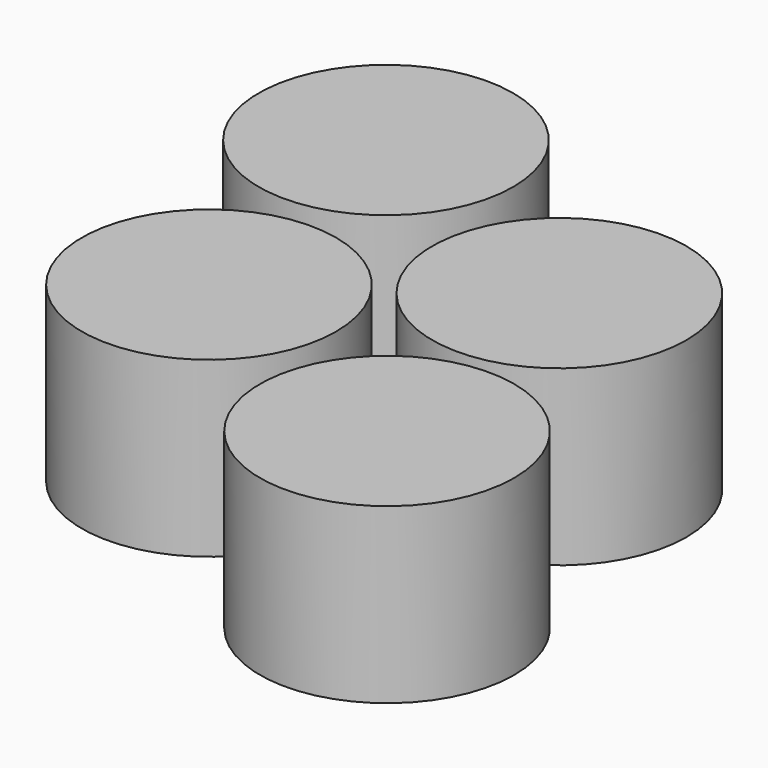
from build123d import *

# Parameters (mm, degrees)
F0_R     = 16.764
F1_DEPTH = 22.86
F3_DEPTH = 4.826
F4_R     = 4.318
F4_R_2   = 4.187513
F5_DEPTH = 13.97


with BuildPart() as f1:
    # F0 (on Top) → F1 (new body)
    with BuildSketch(Plane.XY):
        with Locations((-27.13142, 39.22059)):
            Circle(F0_R)
        with Locations((8.120969, 23.716921)):
            Circle(F0_R)
        with Locations((-21.225259, 2.676229)):
            Circle(F0_R)
        with Locations((13.473423, -11.350901)):
            Circle(F0_R)
    extrude(amount=F1_DEPTH)

    # F2 (on Top) → F3 (cut)
    with BuildSketch(Plane.XY):
        Polygon((-23.457318, 37.839593), (-24.078989, 41.749953), (-27.776295, 43.16675), (-30.851931, 40.673187), (-30.23026, 36.762827), (-26.532953, 35.34603), align=None)
        Polygon((11.89495, 22.403905), (11.273279, 26.314265), (7.575973, 27.731062), (4.500337, 25.237499), (5.122008, 21.327139), (8.819315, 19.910342), align=None)
        Polygon((-17.54694, 1.231937), (-18.168611, 5.142297), (-21.865918, 6.559094), (-24.941553, 4.065531), (-24.319882, 0.155171), (-20.622575, -1.261626), align=None)
        Polygon((17.2741, -12.729515), (16.652429, -8.819156), (12.955122, -7.402359), (9.879487, -9.895922), (10.501158, -13.806281), (14.198465, -15.223078), align=None)
    extrude(amount=F3_DEPTH, mode=Mode.SUBTRACT)

    # F4 (on face) → F5 (cut)
    with BuildSketch(Plane(origin=(0, 0, 4.826), x_dir=(1, 0, 0), z_dir=(0, 0, -1))):
        with Locations((-21.244247, -2.648734)):
            Circle(F4_R)
        with Locations((13.56379, 11.33628)):
            Circle(F4_R)
        with Locations((8.189308, -23.817073)):
            Circle(F4_R)
        with Locations((-27.153491, -39.247921)):
            Circle(F4_R_2)
    extrude(amount=-F5_DEPTH, mode=Mode.SUBTRACT)


solid = f1.part
